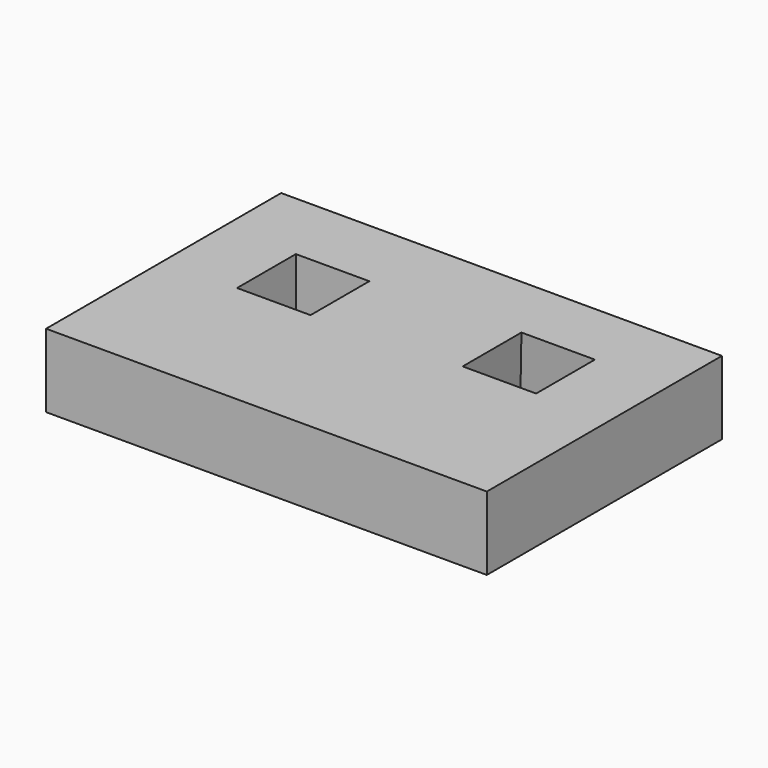
from build123d import *

# Parameters (mm, degrees)
F0_W     = 152.4
F0_H     = 101.6
F1_DEPTH = 25.4
F2_W     = 25.4
F2_H     = 25.4
F3_DEPTH = 25.401
F4_W     = 25.4
F4_H     = 25.4
F5_DEPTH = 25.401
F5_TAPER = -5


with BuildPart() as f1:
    # F0 (on Top) → F1 (new body)
    with BuildSketch(Plane.XY):
        Rectangle(F0_W, F0_H)
    extrude(amount=F1_DEPTH)

    # F2 (on face) → F3 (cut, through all)
    with BuildSketch(Plane.XY.offset(25.4)):
        with Locations((-38.1, 12.7)):
            Rectangle(F2_W, F2_H)
    extrude(amount=-F3_DEPTH, mode=Mode.SUBTRACT)

    # F4 (on face) → F5 (cut, through all)
    with BuildSketch(Plane.XY.offset(25.4)):
        with Locations((38.1, 14.9531663823)):
            Rectangle(F4_W, F4_H)
    extrude(amount=-F5_DEPTH, taper=F5_TAPER, mode=Mode.SUBTRACT)


solid = f1.part
